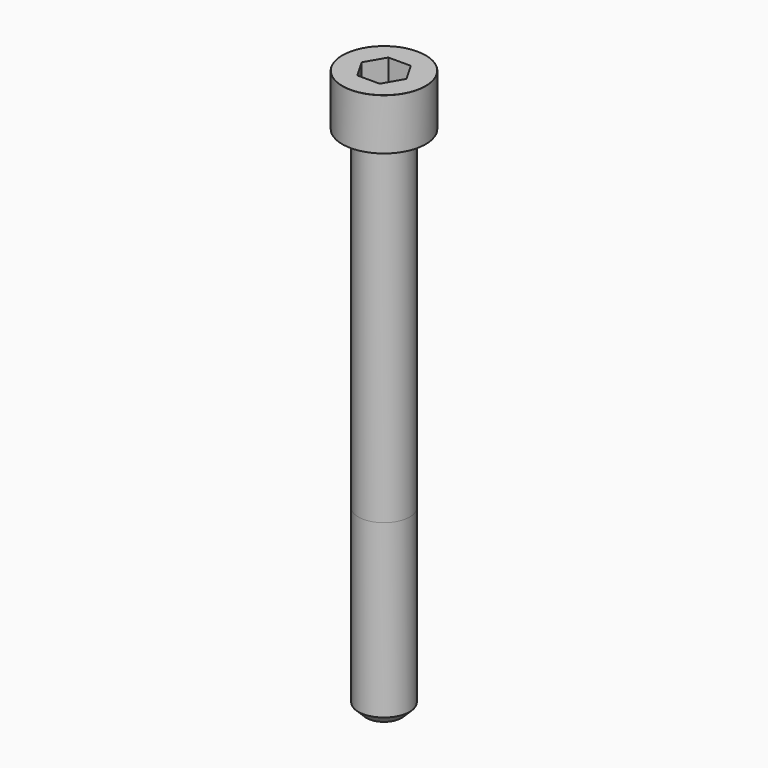
from build123d import *

# Parameters (mm, degrees)
POCKET_DEPTH = 6.06


with BuildPart() as part:
    # Sketch → Revolve (revolve)
    with BuildSketch(Plane.YZ):
        with BuildLine():
            Line((3.999, 0), (6.5, 0))
            Line((6.5, 0), (6.5, 7.97229))
            ThreePointArc((6.5, 7.97229), (6.491884, 7.991884), (6.47229, 8))
            Line((6.47229, 8), (0, 8))
            Line((0, -80), (0, 8))
            Line((2.75, -80), (0, -80))
            Line((4, -78.75), (2.75, -80))
            Line((4, -52), (4, -78.75))
            Line((3.999, 0), (4, -52))
        make_face()
    revolve(axis=Axis((0, 0, 0), (0, 0, 1)))

    # Sketch001 → Pocket (cut)
    with BuildSketch(Plane.XY.offset(8)):
        Polygon((3.498743, 0), (1.749371, 3.03), (-1.749371, 3.03), (-3.498743, 0), (-1.749371, -3.03), (1.749371, -3.03), align=None)
    extrude(amount=-POCKET_DEPTH, mode=Mode.SUBTRACT)


solid = part.part
